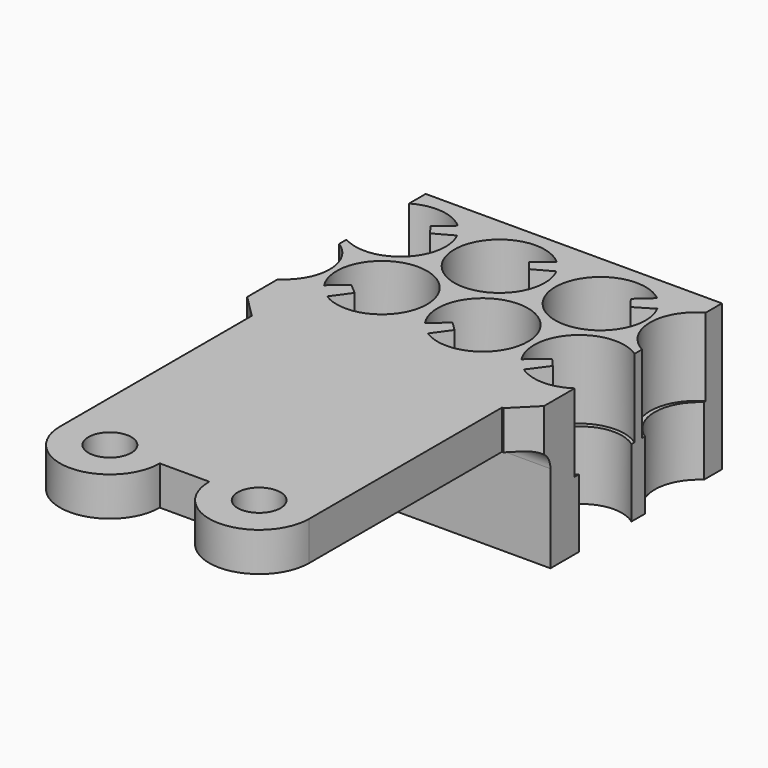
from build123d import *

# Parameters (mm, degrees)
BOX_W                     = 15.2
BOX_H                     = 18
BOX_DEPTH                 = 10
PAD007_DEPTH              = 3
SKETCH007_R               = 2.08
PAD006_DEPTH              = 3.5
SKETCH006_R               = 1.1
SKETCH006_R_2             = 2.32
PAD005_DEPTH              = 4
CHAMFER004_SIZE           = 1.16
FILLET_R                  = 1
FUSION003_PLACEMENT_ANGLE = 180


with BuildPart() as obj1:
    # Box → Box (new body)
    with BuildSketch(Plane(origin=(0, 11, 2), x_dir=(1, 0, 0), z_dir=(0, 0, 1))):
        with Locations((7.6, 9)):
            Rectangle(BOX_W, BOX_H)
    extrude(amount=BOX_DEPTH)


with BuildPart() as pad007:
    # Sketch003 → Pad007 (new body)
    with BuildSketch(Plane.XY):
        Polygon((2.378666, 9.538552), (3.141544, 8.484614), (2.605246, 8.030906), (1.603856, 8.879459), align=None)
        Polygon((6.78436, 8.940759), (7.81191, 8.046443), (8.278705, 8.496499), (7.513181, 9.568461), align=None)
        Polygon((11.639661, 9.077468), (12.904972, 8.018862), (13.299574, 8.474274), (12.400975, 9.695749), align=None)
        Polygon((12.104583, 1.976359), (13.30563, 0.90266), (13.898616, 1.728947), (12.545185, 2.537632), align=None)
        Polygon((8.700089, 1.748501), (7.31743, 2.508724), (6.930422, 2.025162), (8.137034, 1.029802), align=None)
        Polygon((2.273056, 2.567461), (3.508846, 1.882398), (2.897784, 1.211809), (1.893881, 2.05588), align=None)
    extrude(amount=PAD007_DEPTH)


with BuildPart() as pad006:
    # Sketch007 → Pad006 (new body)
    with BuildSketch(Plane.XY.offset(4)):
        with BuildLine():
            Line((0, 0), (15.2, 0))
            Line((15.2, 1.15374), (15.2, 0))
            ThreePointArc((15.2, 4.942574), (14.191377, 3.048157), (15.2, 1.15374))
            Line((15.2, 5.803221), (15.2, 4.942574))
            ThreePointArc((15.2, 9.17326), (11.900529, 7.488241), (15.2, 5.803221))
            Line((15.2, 9.17326), (15.2, 11))
            Line((0, 11), (15.2, 11))
            Line((0, 9.37218), (0, 11))
            ThreePointArc((0, 5.625638), (0.983556, 7.498909), (0, 9.37218))
            Line((0, 4.762372), (0, 5.625638))
            ThreePointArc((0, 1.365976), (3.281052, 3.064174), (0, 4.762372))
            Line((0, 0), (0, 1.365976))
        make_face()
        with Locations((3.71, 7.45)):
            Circle(SKETCH007_R, mode=Mode.SUBTRACT)
        with Locations((8.886504, 7.45)):
            Circle(SKETCH007_R, mode=Mode.SUBTRACT)
        with Locations((11.417808, 3.064059)):
            Circle(SKETCH007_R, mode=Mode.SUBTRACT)
        with Locations((6.227885, 3.050071)):
            Circle(SKETCH007_R, mode=Mode.SUBTRACT)
    extrude(amount=PAD006_DEPTH)


with BuildPart() as cut:
    # Sketch006 → Pad005 (new body)
    with BuildSketch(Plane.XY):
        with BuildLine():
            Line((1.167192, 12.607396), (1.167192, 24.915267))
            ThreePointArc((6.287975, 24.916916), (3.726759, 27.476896), (1.167192, 24.915267))
            Line((6.287975, 24.916916), (8.825715, 24.916916))
            ThreePointArc((13.968192, 24.934157), (11.38834, 27.49472), (8.825715, 24.916916))
            Line((13.968192, 12.572419), (13.968192, 24.934157))
            Line((15.2, 12.572419), (13.968192, 12.572419))
            Line((15.2, 9.446953), (15.2, 12.572419))
            ThreePointArc((15.2, 9.446953), (11.577912, 7.526805), (15.2, 5.606658))
            Line((15.2, 5.606658), (15.2, 5.125616))
            ThreePointArc((15.2, 5.125616), (13.98768, 3.087125), (15.2, 1.048634))
            Line((15.2, 1.048634), (15.2, 0))
            Line((0, 0), (15.2, 0))
            Line((0, 0), (0, 1.066252))
            ThreePointArc((0, 1.066252), (3.486123, 3.071883), (0, 5.077515))
            Line((0, 5.077515), (0, 5.551994))
            ThreePointArc((0, 5.551994), (1.087704, 7.51766), (0, 9.483327))
            Line((0, 9.483327), (0, 12.607396))
            Line((0, 12.607396), (1.167192, 12.607396))
        make_face()
        with Locations((3.727584, 24.916504)):
            Circle(SKETCH006_R, mode=Mode.SUBTRACT)
        with Locations((11.392031, 24.923481)):
            Circle(SKETCH006_R, mode=Mode.SUBTRACT)
        with Locations((3.71, 7.45)):
            Circle(SKETCH006_R_2, mode=Mode.SUBTRACT)
        with Locations((8.886504, 7.45)):
            Circle(SKETCH006_R_2, mode=Mode.SUBTRACT)
        with Locations((11.417808, 3.064059)):
            Circle(SKETCH006_R_2, mode=Mode.SUBTRACT)
        with Locations((6.227885, 3.050071)):
            Circle(SKETCH006_R_2, mode=Mode.SUBTRACT)
    extrude(amount=PAD005_DEPTH)

    # Chamfer004
    chamfer004_edges = [cut.edges().sort_by_distance(p)[0] for p in [
        (0, 12.607396, 2),
        (15.2, 12.572419, 2),
    ]]
    chamfer(chamfer004_edges, length=CHAMFER004_SIZE)

    # Fusion001: union Pad007, Pad006
    add(pad007.part)
    add(pad006.part)

    # Cut: cut obj1
    add(obj1.part, mode=Mode.SUBTRACT)


with BuildPart() as fusion003:
    # Fillet base: copy of Cut
    add(cut.part)

    # Fillet
    fillet_edges = [fusion003.edges().sort_by_distance(p)[0] for p in [
        (7.6, 11, 2),
    ]]
    fillet(fillet_edges, radius=FILLET_R)

    # Fusion003: union Cut
    add(cut.part)


with BuildPart() as fusion003_1:
    # Fusion003 placement: moved
    add(fusion003.part.moved(Location((0, -13.4, 6.1))).rotate(Axis((0, -13.4, 6.1), (1, 0, 0)), FUSION003_PLACEMENT_ANGLE))


solid = fusion003_1.part
